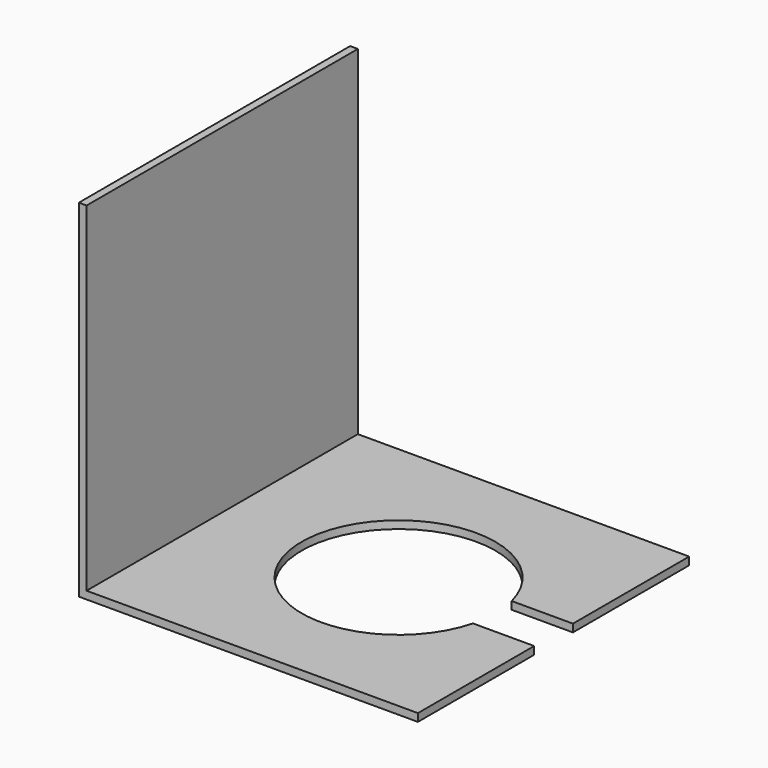
from build123d import *

# Parameters (mm, degrees)
F1_DEPTH = 8
F2_W     = 350
F2_H     = 358
F3_DEPTH = 8


with BuildPart() as f1:
    # F0 (on Top) → F1 (new body)
    with BuildSketch(Plane.XY):
        with BuildLine():
            Line((350, 0), (0, 0))
            Line((0, 0), (0, -350))
            Line((0, -350), (350, -350))
            Line((350, -350), (350, -200))
            Line((350, -200), (300, -200))
            Line((300, -200), (286.824584, -200))
            ThreePointArc((286.824584, -200), (90, -175), (286.824584, -150))
            Line((286.824584, -150), (300, -150))
            Line((300, -150), (350, -150))
            Line((350, -150), (350, 0))
        make_face()
    extrude(amount=F1_DEPTH)

    # F2 (on Right) → F3 (join)
    with BuildSketch(Plane.YZ):
        with Locations((-175, 179)):
            Rectangle(F2_W, F2_H)
    extrude(amount=F3_DEPTH)


solid = f1.part
